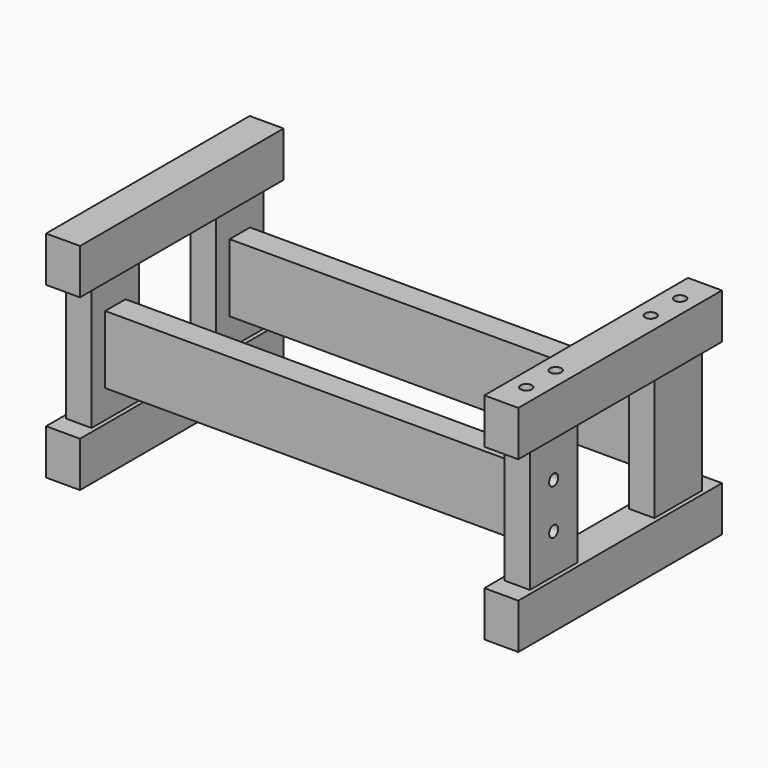
from build123d import *

# Parameters (mm, degrees)
F0_W        = 38.1
F0_H        = 50.8
F1_DEPTH    = 142.875
F2_W        = 28.575
F2_H        = 66.675
F3_DEPTH    = 139.7
F10_W       = 28.575
F10_H       = 76.2
F11_DEPTH   = 463.55
F17_D       = 12.7
F17_DEPTH   = 88.9
F17_TIP     = 3.8154649308
F17_2_D     = 12.7
F17_2_DEPTH = 88.9
F17_2_TIP   = 3.8154649308
F17_3_D     = 12.7
F17_3_DEPTH = 88.9
F17_3_TIP   = 3.8154649308
F19_D       = 12.7
F19_DEPTH   = 63.5
F19_TIP     = 3.8154649308
F19_2_D     = 12.7
F19_2_DEPTH = 63.5
F19_2_TIP   = 3.8154649308
F21_D       = 12.7
F21_DEPTH   = 88.9
F21_TIP     = 3.8154649308
F21_2_D     = 12.7
F21_2_DEPTH = 88.9
F21_2_TIP   = 3.8154649308
F21_3_D     = 12.7
F21_3_DEPTH = 88.9
F21_3_TIP   = 3.8154649308
F23_D       = 12.7
F23_DEPTH   = 63.5
F23_TIP     = 3.8154649308
F23_2_D     = 12.7
F23_2_DEPTH = 63.5
F23_2_TIP   = 3.8154649308


with BuildPart() as f1:
    # F0 (on Front) → F1 (new body, symmetric)
    with BuildSketch(Plane.XZ):
        Rectangle(F0_W, F0_H)
    extrude(amount=F1_DEPTH, both=True)


with BuildPart() as f3:
    # F2 (on face) → F3 (new body)
    with BuildSketch(Plane.XY.offset(25.4)):
        with Locations((0, -87.3125)):
            Rectangle(F2_W, F2_H)
    extrude(amount=F3_DEPTH)


with BuildPart() as f4_1:
    # F4: instance of F3
    add(f3.part.mirror(Plane.XZ))


with BuildPart() as f7_1:
    # F7: instance of F1
    add(f1.part.mirror(Plane.XY.offset(95.25)))


with BuildPart() as f11:
    # F10 (on face) → F11 (new body)
    with BuildSketch(Plane.YZ.offset(14.2875)):
        with Locations((-87.3125, 95.25)):
            Rectangle(F10_W, F10_H)
    extrude(amount=F11_DEPTH)


with BuildPart() as f12_1:
    # F12: instance of F11
    add(f11.part.mirror(Plane.XZ))


with BuildPart() as f15_1:
    # F15: instance of F1
    add(f1.part.mirror(Plane(origin=(246.0625, -87.3125, 95.25), x_dir=(0, 1, 0), z_dir=(1, 0, 0))))

    # F21
    with Locations(Plane(origin=(0, 0, -25.4), x_dir=(1, 0, 0), z_dir=(0, 0, -1))):
        with Locations((492.125, -107.95), (492.125, -66.675), (492.125, 66.675), (492.125, 107.95)):
            Hole(F21_D / 2, depth=F21_DEPTH)
            with Locations((0, 0, -(F21_DEPTH + F21_TIP / 2))):  # 118° drill point
                Cone(0, F21_D / 2, F21_TIP, mode=Mode.SUBTRACT)


with BuildPart() as f15_2:
    # F15: instance of F3
    add(f3.part.mirror(Plane(origin=(246.0625, -87.3125, 95.25), x_dir=(0, 1, 0), z_dir=(1, 0, 0))))

    # F17
    with Locations(Plane.XY.offset(215.9)):
        with Locations((492.125, 107.95), (492.125, 66.675), (492.125, -66.675), (492.125, -107.95)):
            Hole(F17_D / 2, depth=F17_DEPTH)
            with Locations((0, 0, -(F17_DEPTH + F17_TIP / 2))):  # 118° drill point
                Cone(0, F17_D / 2, F17_TIP, mode=Mode.SUBTRACT)

    # F19#2
    with Locations(Plane.YZ.offset(506.4125)):
        with Locations((-87.3125, 120.65), (-87.3125, 69.85)):
            Hole(F19_2_D / 2, depth=F19_2_DEPTH)
            with Locations((0, 0, -(F19_2_DEPTH + F19_2_TIP / 2))):  # 118° drill point
                Cone(0, F19_2_D / 2, F19_2_TIP, mode=Mode.SUBTRACT)

    # F21#2
    with Locations(Plane(origin=(0, 0, -25.4), x_dir=(1, 0, 0), z_dir=(0, 0, -1))):
        with Locations((492.125, -107.95), (492.125, -66.675), (492.125, 66.675), (492.125, 107.95)):
            Hole(F21_2_D / 2, depth=F21_2_DEPTH)
            with Locations((0, 0, -(F21_2_DEPTH + F21_2_TIP / 2))):  # 118° drill point
                Cone(0, F21_2_D / 2, F21_2_TIP, mode=Mode.SUBTRACT)


with BuildPart() as f15_3:
    # F15: instance of F4_1
    add(f4_1.part.mirror(Plane(origin=(246.0625, -87.3125, 95.25), x_dir=(0, 1, 0), z_dir=(1, 0, 0))))

    # F17#2
    with Locations(Plane.XY.offset(215.9)):
        with Locations((492.125, 107.95), (492.125, 66.675), (492.125, -66.675), (492.125, -107.95)):
            Hole(F17_2_D / 2, depth=F17_2_DEPTH)
            with Locations((0, 0, -(F17_2_DEPTH + F17_2_TIP / 2))):  # 118° drill point
                Cone(0, F17_2_D / 2, F17_2_TIP, mode=Mode.SUBTRACT)

    # F21#3
    with Locations(Plane(origin=(0, 0, -25.4), x_dir=(1, 0, 0), z_dir=(0, 0, -1))):
        with Locations((492.125, -107.95), (492.125, -66.675), (492.125, 66.675), (492.125, 107.95)):
            Hole(F21_3_D / 2, depth=F21_3_DEPTH)
            with Locations((0, 0, -(F21_3_DEPTH + F21_3_TIP / 2))):  # 118° drill point
                Cone(0, F21_3_D / 2, F21_3_TIP, mode=Mode.SUBTRACT)


with BuildPart() as f15_4:
    # F15: instance of F7_1
    add(f7_1.part.mirror(Plane(origin=(246.0625, -87.3125, 95.25), x_dir=(0, 1, 0), z_dir=(1, 0, 0))))

    # F17#3
    with Locations(Plane.XY.offset(215.9)):
        with Locations((492.125, 107.95), (492.125, 66.675), (492.125, -66.675), (492.125, -107.95)):
            Hole(F17_3_D / 2, depth=F17_3_DEPTH)
            with Locations((0, 0, -(F17_3_DEPTH + F17_3_TIP / 2))):  # 118° drill point
                Cone(0, F17_3_D / 2, F17_3_TIP, mode=Mode.SUBTRACT)


with BuildPart() as f11_1:
    add(f11.part)

    # F19
    with Locations(Plane.YZ.offset(506.4125)):
        with Locations((-87.3125, 120.65), (-87.3125, 69.85)):
            Hole(F19_D / 2, depth=F19_DEPTH)
            with Locations((0, 0, -(F19_DEPTH + F19_TIP / 2))):  # 118° drill point
                Cone(0, F19_D / 2, F19_TIP, mode=Mode.SUBTRACT)

    # F23#2
    with Locations(Plane(origin=(-14.2875, 0, 0), x_dir=(0, -1, 0), z_dir=(-1, 0, 0))):
        with Locations((87.3125, 69.85), (87.3125, 120.65)):
            Hole(F23_2_D / 2, depth=F23_2_DEPTH)
            with Locations((0, 0, -(F23_2_DEPTH + F23_2_TIP / 2))):  # 118° drill point
                Cone(0, F23_2_D / 2, F23_2_TIP, mode=Mode.SUBTRACT)


with BuildPart() as f3_1:
    add(f3.part)

    # F23
    with Locations(Plane(origin=(-14.2875, 0, 0), x_dir=(0, -1, 0), z_dir=(-1, 0, 0))):
        with Locations((87.3125, 69.85), (87.3125, 120.65)):
            Hole(F23_D / 2, depth=F23_DEPTH)
            with Locations((0, 0, -(F23_DEPTH + F23_TIP / 2))):  # 118° drill point
                Cone(0, F23_D / 2, F23_TIP, mode=Mode.SUBTRACT)


solid = Compound([f1.part, f4_1.part, f7_1.part, f12_1.part, f15_1.part, f15_2.part, f15_3.part, f15_4.part, f11_1.part, f3_1.part])
